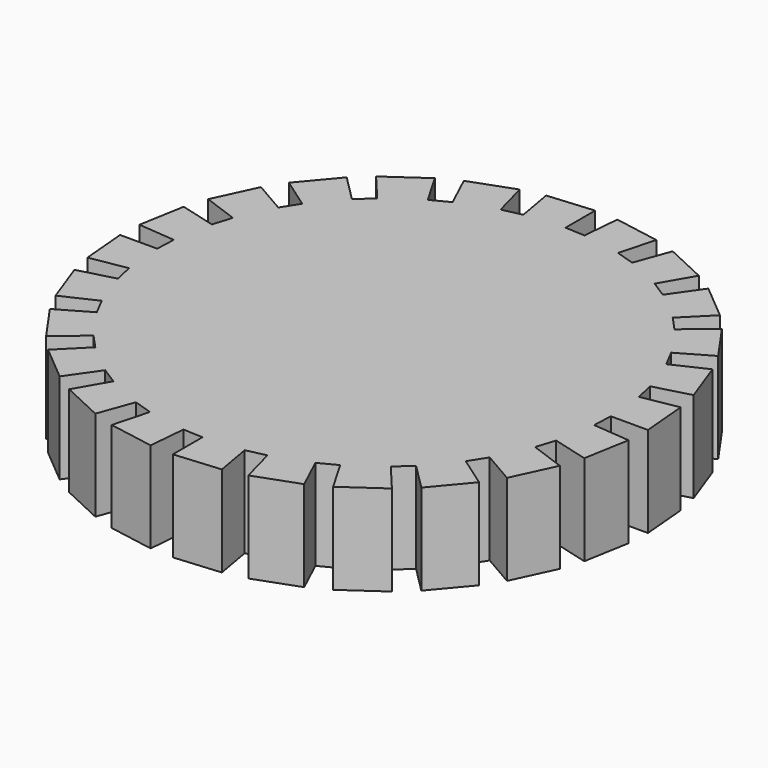
from build123d import *

# Parameters (mm, degrees)
F1_DEPTH = 10


with BuildPart() as f1:
    # F0 (on Top) → F1 (new body)
    with BuildSketch(Plane.XY):
        Polygon((2.178894, 24.904867), (0, 25), (0, 29.088151), (-5.051104, 28.646236), (-4.341204, 24.620194), (-6.470476, 24.148146), (-7.528567, 28.096996), (-12.293184, 26.362817), (-10.565457, 22.657695), (-12.5, 21.650635), (-14.544075, 25.191077), (-18.697503, 22.282816), (-16.06969, 19.151111), (-17.67767, 17.67767), (-20.568429, 20.568429), (-23.827618, 16.684278), (-20.478801, 14.339411), (-21.650635, 12.5), (-25.191077, 14.544075), (-27.333921, 9.948733), (-23.492316, 8.550504), (-24.148146, 6.470476), (-28.096996, 7.528567), (-28.977462, 2.535199), (-24.904867, 2.178894), (-25, 0), (-29.088151, 0), (-28.646236, -5.051104), (-24.620194, -4.341204), (-24.148146, -6.470476), (-28.096996, -7.528567), (-26.362817, -12.293184), (-22.657695, -10.565457), (-21.650635, -12.5), (-25.191077, -14.544075), (-22.282816, -18.697503), (-19.151111, -16.06969), (-17.67767, -17.67767), (-20.568429, -20.568429), (-16.684278, -23.827618), (-14.339411, -20.478801), (-12.5, -21.650635), (-14.544075, -25.191077), (-9.948733, -27.333921), (-8.550504, -23.492316), (-6.470476, -24.148146), (-7.528567, -28.096996), (-2.535199, -28.977462), (-2.178894, -24.904867), (0, -25), (0, -29.088151), (5.051104, -28.646236), (4.341204, -24.620194), (6.470476, -24.148146), (7.528567, -28.096996), (12.293184, -26.362817), (10.565457, -22.657695), (12.5, -21.650635), (14.544075, -25.191077), (18.697503, -22.282816), (16.06969, -19.151111), (17.67767, -17.67767), (20.568429, -20.568429), (23.827618, -16.684278), (20.478801, -14.339411), (21.650635, -12.5), (25.191077, -14.544075), (27.333921, -9.948733), (23.492316, -8.550504), (24.148146, -6.470476), (28.096996, -7.528567), (28.977462, -2.535199), (24.904867, -2.178894), (25, 0), (29.088151, 0), (28.646236, 5.051104), (24.620194, 4.341204), (24.148146, 6.470476), (28.096996, 7.528567), (26.362817, 12.293184), (22.657695, 10.565457), (21.650635, 12.5), (25.191077, 14.544075), (22.282816, 18.697503), (19.151111, 16.06969), (17.67767, 17.67767), (20.568429, 20.568429), (16.684278, 23.827618), (14.339411, 20.478801), (12.5, 21.650635), (14.544075, 25.191077), (9.948733, 27.333921), (8.550504, 23.492316), (6.470476, 24.148146), (7.528567, 28.096996), (2.535199, 28.977462), align=None)
    extrude(amount=F1_DEPTH)


solid = f1.part
